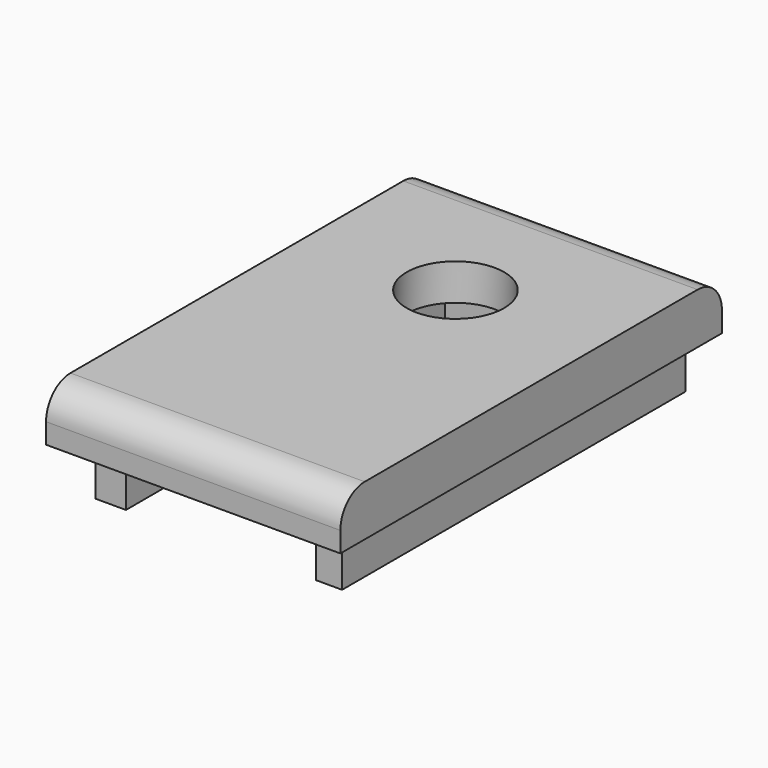
from build123d import *

# Parameters (mm, degrees)
PAD002_DEPTH = 7
SKETCH001_R  = 4.8
PAD001_DEPTH = 4
BOX002_W     = 42.5
BOX002_H     = 24.5
BOX002_DEPTH = 1.4
BOX001_W     = 29
BOX001_H     = 47
BOX001_DEPTH = 5
FILLET002_R  = 3


with BuildPart() as body002:
    # Sketch002 → Pad002 (new body)
    with BuildSketch(Plane.XY):
        Polygon((-12.15, -21.15), (-12.15, 21.15), (12.15, 21.15), (12.15, -21.15), (9.558939, -21.15), (9.558939, 18.15), (-9.15, 18.15), (-9.15, -21.15), align=None)
    extrude(amount=PAD002_DEPTH)


with BuildPart() as body002_1:
    # Body002 placement: moved
    add(body002.part.moved(Location((0.24, 0, 23))))


with BuildPart() as body001:
    # Sketch001 → Pad001 (new body)
    with BuildSketch(Plane.XY):
        with Locations((0, 8.3)):
            Circle(SKETCH001_R)
    extrude(amount=PAD001_DEPTH)


with BuildPart() as body001_1:
    # Body001 placement: moved
    add(body001.part.moved(Location((0, 0, 29))))


with BuildPart() as cube002:
    # Box002 → Box002 (new body)
    with BuildSketch(Plane(origin=(12.5, -21.25, 13), x_dir=(0, 1, 0), z_dir=(0, 0, 1))):
        with Locations((21.25, 12.25)):
            Rectangle(BOX002_W, BOX002_H)
    extrude(amount=BOX002_DEPTH)


with BuildPart() as top:
    # Box001 → Box001 (new body)
    with BuildSketch(Plane(origin=(-14.5, -24, 13), x_dir=(1, 0, 0), z_dir=(0, 0, 1))):
        with Locations((14.5, 23.5)):
            Rectangle(BOX001_W, BOX001_H)
    extrude(amount=BOX001_DEPTH)

    # Cut001: cut Cube002
    add(cube002.part, mode=Mode.SUBTRACT)

    # Fillet002
    fillet002_edges = [top.edges().sort_by_distance(p)[0] for p in [
        (0, -24, 18),
        (0, 23, 18),
    ]]
    fillet(fillet002_edges, radius=FILLET002_R)


with BuildPart() as top_1:
    # Fillet002 placement: moved
    add(top.part.moved(Location((0, 0, 15))))

    # Cut002: cut Body001
    add(body001_1.part, mode=Mode.SUBTRACT)

    # Fusion: union Body002
    add(body002_1.part)


solid = top_1.part
